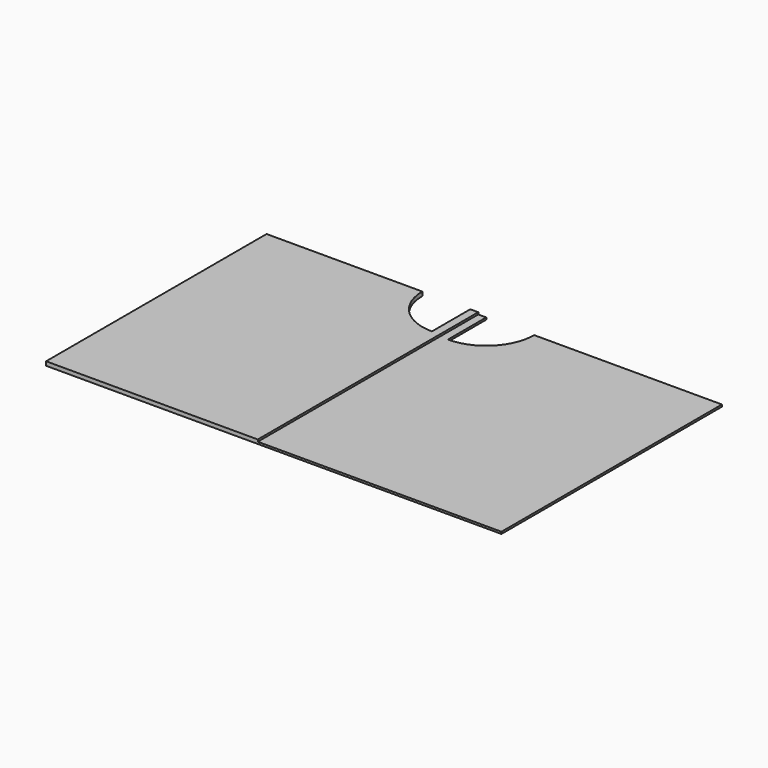
from build123d import *

# Parameters (mm, degrees)
F1_DEPTH = 25
F2_DEPTH = 50


with BuildPart() as f1:
    # F0 (on Top) → F1 (new body)
    with BuildSketch(Plane.XY):
        with BuildLine():
            Line((0, 0), (0, 3450))
            Line((0, 3450), (-2350, 3450))
            ThreePointArc((-2350, 3450), (-2525.735931, 3025.735931), (-2950, 2850))
            Line((-2950, 2850), (-2950, 3450))
            Line((-2950, 3450), (-3050, 3450))
            Line((-3050, 3450), (-3050, 0))
            Line((-3050, 0), (0, 0))
        make_face()
    extrude(amount=F1_DEPTH)

    # F0 (on Top) → F2 (join)
    with BuildSketch(Plane.XY):
        with BuildLine():
            Line((-5700, 0), (-3050, 0))
            Line((-3050, 0), (-3050, 3450))
            Line((-3050, 3450), (-3150, 3450))
            Line((-3150, 3450), (-3150, 2850))
            ThreePointArc((-3150, 2850), (-3574.264069, 3025.735931), (-3750, 3450))
            Line((-3750, 3450), (-5700, 3450))
            Line((-5700, 3450), (-5700, 0))
        make_face()
    extrude(amount=F2_DEPTH)


solid = f1.part
